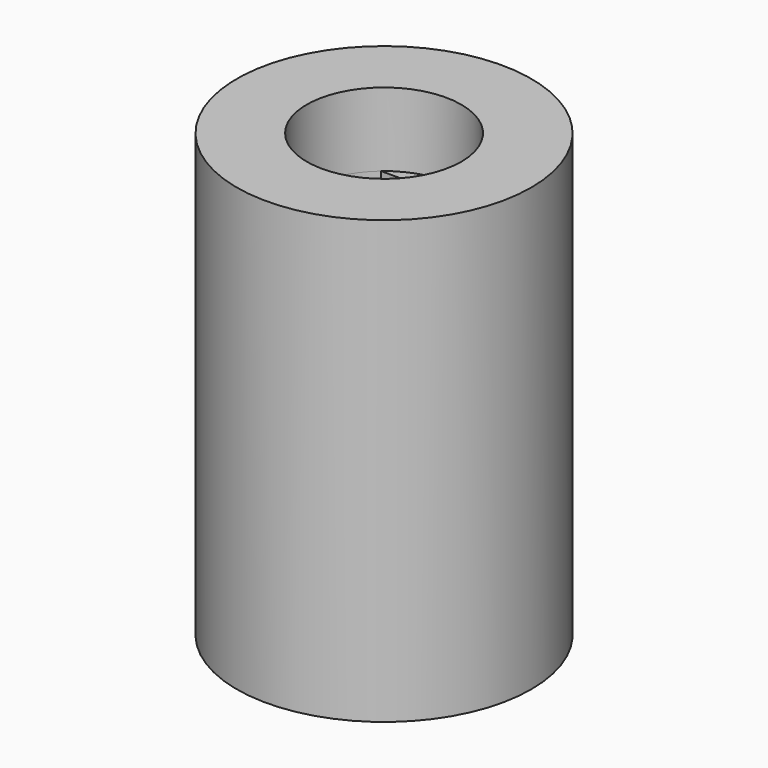
from build123d import *

# Parameters (mm, degrees)
SKETCH268_R     = 4
PAD107_DEPTH    = 10
SKETCH269_R     = 4
SKETCH269_R_2   = 2.1
PAD108_DEPTH    = 2
SKETCH270_R     = 1.5
POCKET131_DEPTH = 4.001


with BuildPart() as part:
    # Sketch268 → Pad107 (new body)
    with BuildSketch(Plane.XY):
        Circle(SKETCH268_R)
        with BuildLine():
            Line((-1.360147, 1.6), (1.360147, 1.6))
            ThreePointArc((-1.360147, 1.6), (0, -2.1), (1.360147, 1.6))
        make_face(mode=Mode.SUBTRACT)
    extrude(amount=PAD107_DEPTH)

    # Sketch269 (on Face5 of Pad107) → Pad108 (join)
    with BuildSketch(Plane.XY.offset(10)):
        Circle(SKETCH269_R)
        Circle(SKETCH269_R_2, mode=Mode.SUBTRACT)
    extrude(amount=PAD108_DEPTH)

    # Sketch270 → Pocket131 (cut, through all)
    with BuildSketch(Plane.XZ):
        with Locations((0, 3)):
            Circle(SKETCH270_R)
    extrude(amount=-POCKET131_DEPTH, mode=Mode.SUBTRACT)


solid = part.part
